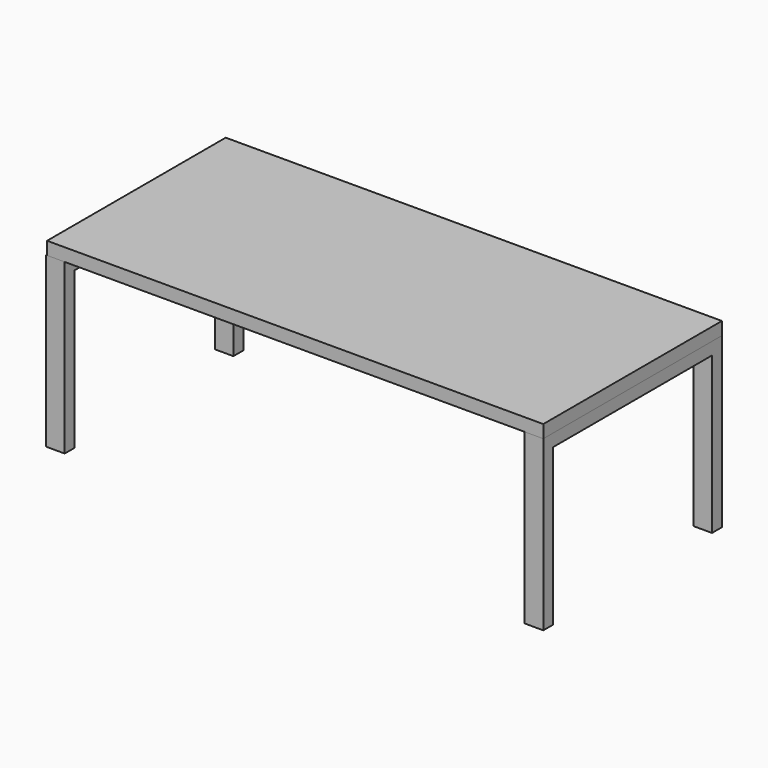
from build123d import *

# Parameters (mm, degrees)
F0_W     = 2000
F0_H     = 900
F1_DEPTH = 52
F3_DEPTH = 75


with BuildPart() as f1:
    # F0 (on Top) → F1 (new body)
    with BuildSketch(Plane.XY):
        with Locations((1000, 450)):
            Rectangle(F0_W, F0_H)
    extrude(amount=F1_DEPTH)


with BuildPart() as f3:
    # F2 (on face) → F3 (new body)
    with BuildSketch(Plane.YZ.offset(2000)):
        Polygon((0, 0), (0, -680), (50, -680), (50, -50), (850, -50), (850, -680), (900, -680), (900, 0), align=None)
    extrude(amount=-F3_DEPTH)


with BuildPart() as f4_1:
    # F4: copy of F3
    add(f3.part.moved(Location((-1929, 0, 0))))


solid = Compound([f1.part, f3.part, f4_1.part])
